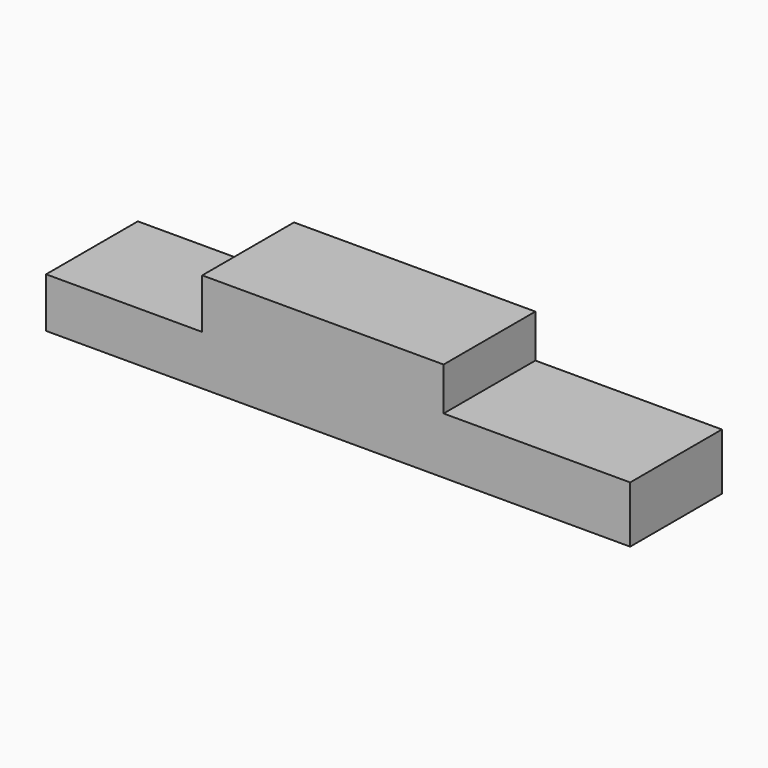
from build123d import *

# Parameters (mm, degrees)
F1_DEPTH = 25.4


with BuildPart() as f1:
    # F0 (on Front) → F1 (new body)
    with BuildSketch(Plane.XZ):
        Polygon((-22.947412, -12.524042), (-22.947412, -1.48623), (-57.528757, -1.48623), (-57.525477, -12.531252), align=None)
        Polygon((71.822926, 0), (30.506756, 0), (30.506756, -12.524042), (30.506756, -12.528093), (71.822926, -12.528093), align=None)
        Polygon((30.506756, 9.551582), (-22.947412, 9.551582), (-22.947412, -1.48623), (-22.947412, -12.524042), (30.506756, -12.524042), (30.506756, 0), align=None)
    extrude(amount=F1_DEPTH)


solid = f1.part
